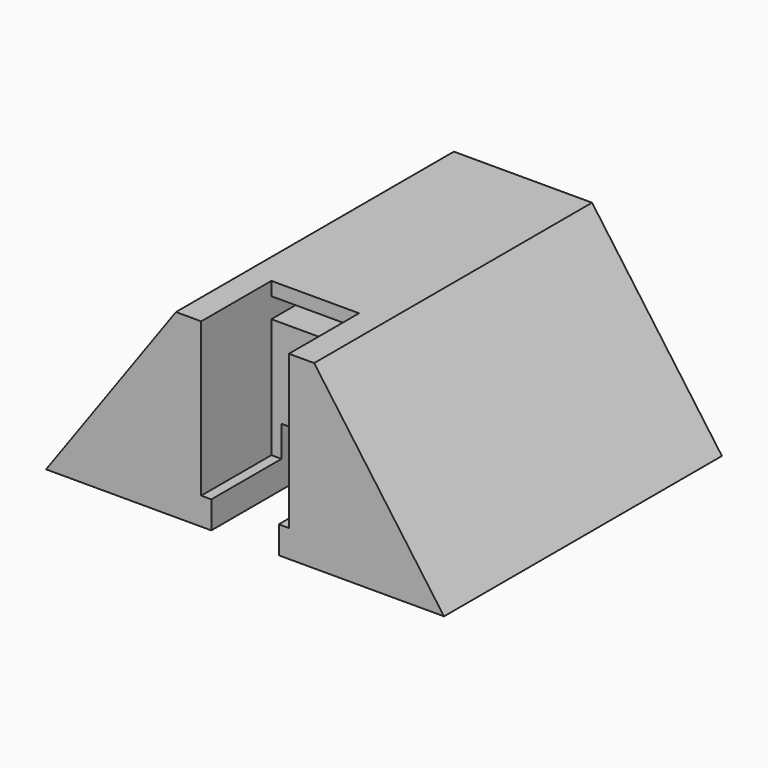
from build123d import *

# Parameters (mm, degrees)
F0_W      = 59
F0_H      = 51.5
F1_DEPTH  = 26.8
F2_W      = 10
F2_H      = 13
F3_DEPTH  = 26.8
F4_W      = 12.999998
F4_H      = 13
F5_DEPTH  = 22.75
F7_DEPTH  = 51.5
F9_DEPTH  = 51.5
F10_W     = 10
F10_H     = 8.67
F11_DEPTH = 38.5
F12_W     = 13
F12_H     = 3
F13_DEPTH = 5


with BuildPart() as f1:
    # F0 (on Top) → F1 (new body)
    with BuildSketch(Plane.XY):
        Rectangle(F0_W, F0_H)
    extrude(amount=F1_DEPTH)

    # F2 (on face) → F3 (cut)
    with BuildSketch(Plane.XY.offset(26.8)):
        with Locations((0, -19.25)):
            Rectangle(F2_W, F2_H)
    extrude(amount=-F3_DEPTH, mode=Mode.SUBTRACT)

    # F4 (on face) → F5 (cut)
    with BuildSketch(Plane.XY.offset(26.8)):
        with Locations((-1e-06, -19.25)):
            Rectangle(F4_W, F4_H)
    extrude(amount=-F5_DEPTH, mode=Mode.SUBTRACT)

    # F6 (on face) → F7 (cut)
    with BuildSketch(Plane.XZ.offset(25.75)):
        Polygon((-29.5, 26.8), (-29.5, 0), (-10.244871, 26.8), align=None)
    extrude(amount=-F7_DEPTH, mode=Mode.SUBTRACT)

    # F8 (on face) → F9 (cut)
    with BuildSketch(Plane.XZ.offset(25.75)):
        Polygon((10.244871, 26.8), (29.5, 0), (29.5, 26.8), align=None)
    extrude(amount=-F9_DEPTH, mode=Mode.SUBTRACT)

    # F10 (on face) → F11 (cut)
    with BuildSketch(Plane.XZ.offset(12.75)):
        with Locations((0, 4.302397)):
            Rectangle(F10_W, F10_H)
    extrude(amount=-F11_DEPTH, mode=Mode.SUBTRACT)

    # F12 (on face) → F13 (cut)
    with BuildSketch(Plane.XZ.offset(12.75)):
        with Locations((0, 23.3)):
            Rectangle(F12_W, F12_H)
    extrude(amount=-F13_DEPTH, mode=Mode.SUBTRACT)


solid = f1.part
